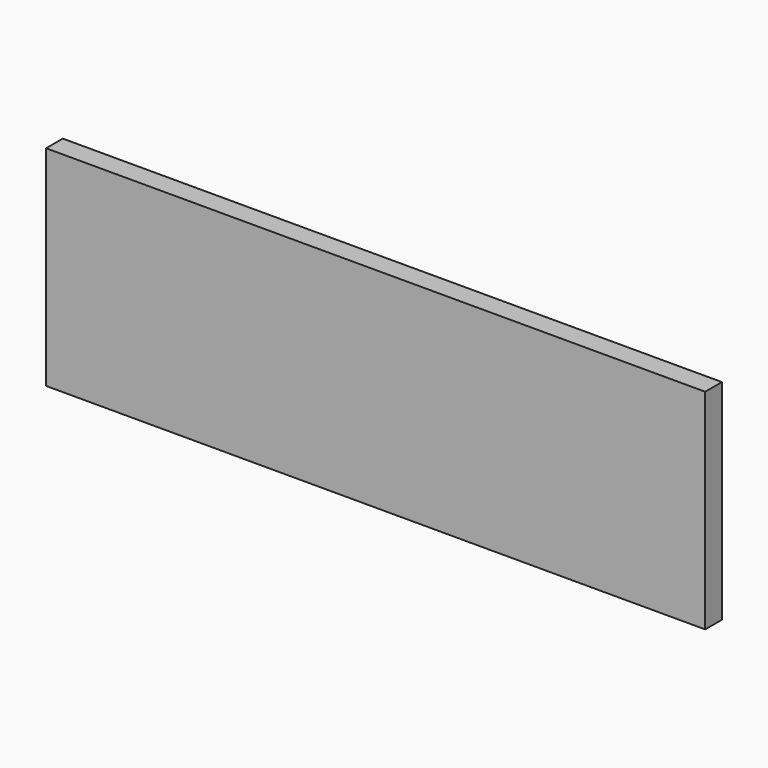
from build123d import *

# Parameters (mm, degrees)
F1_DEPTH = 2
F2_W     = 30
F2_H     = 4
F3_DEPTH = 5
F4_R     = 1.15
F5_DEPTH = 25


with BuildPart() as f1:
    # F0 (on Front) → F1 (new body)
    with BuildSketch(Plane.XZ):
        Polygon((-32.254396, -12.737582), (-32.254396, -22.737582), (-32.254396, -32.737582), (30.745604, -32.737582), (30.745604, -12.737582), align=None)
    extrude(amount=F1_DEPTH)

    # F2 (on face) → F3 (join)
    with BuildSketch(Plane.XZ.offset(2)):
        with Locations((-8.754396, -25.737582)):
            Rectangle(F2_W, F2_H)
    extrude(amount=F3_DEPTH)

    # F4 (on face) → F5 (cut)
    with BuildSketch(Plane.XY.offset(-23.737582)):
        with Locations((-21.254396, -5)):
            Circle(F4_R)
        with Locations((3.745604, -5)):
            Circle(F4_R)
    extrude(amount=-F5_DEPTH, mode=Mode.SUBTRACT)


with BuildPart() as f6_1:
    # F6: instance of F1
    add(f1.part.mirror(Plane.XZ))


solid = f6_1.part
